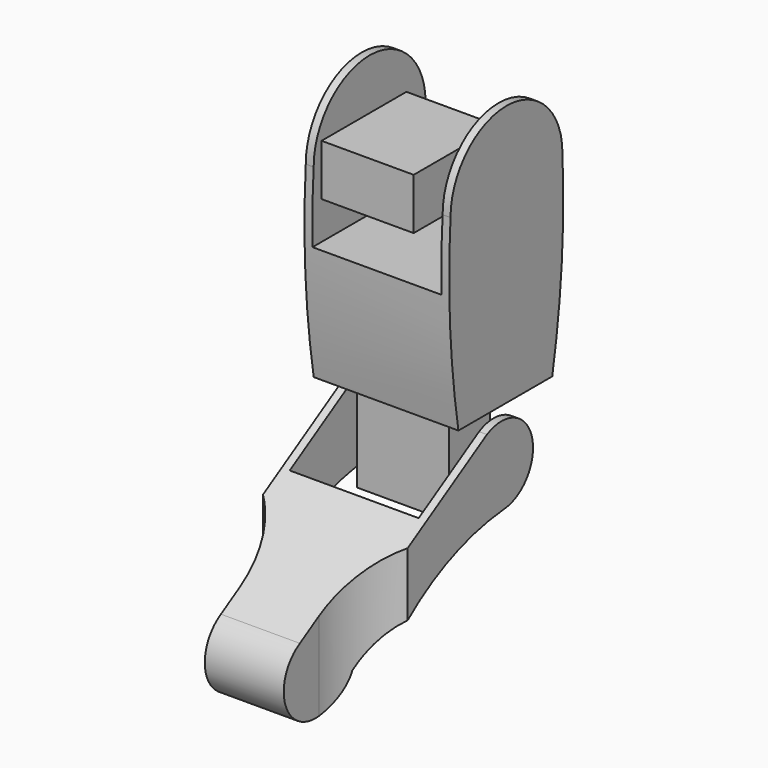
from build123d import *

# Parameters (mm, degrees)
PAD_DEPTH               = 55
SKETCH001_W             = 49
SKETCH001_H             = 60.9
POCKET_DEPTH            = 500
POCKET001_DEPTH         = 500
SKETCH003_W             = 40.3
SKETCH003_H             = 19.5
PAD001_DEPTH            = 35
SKETCH004_R             = 2.9
PAD002_DEPTH            = 43
BODY001_PLACEMENT_ANGLE = 90
PAD003_DEPTH            = 55
SKETCH006_W             = 49
SKETCH006_H             = 53.15
POCKET002_DEPTH         = 100
SKETCH007_W             = 40.3
SKETCH007_H             = 19.5
SKETCH007_R             = 2.9
PAD004_DEPTH            = 35
SKETCH008_R             = 2.9
PAD005_DEPTH            = 43


with BuildPart() as lowerlegbody:
    # Sketch → Pad (new body)
    with BuildSketch(Plane.YZ):
        with BuildLine():
            ThreePointArc((28.980657, 15.850683), (42.584206, 34.802551), (21.20392, 44.135996))
            Line((-52.001908, 0), (21.20392, 44.135996))
            ThreePointArc((-52.001908, 0), (-53.920439, -24.881725), (-30.209248, -17.099671))
            ThreePointArc((28.980657, 15.850683), (-4.124344, 5.680733), (-30.209248, -17.099671))
        make_face()
    extrude(amount=PAD_DEPTH)

    # Sketch001 → Pocket (cut)
    with BuildSketch(Plane(origin=(27.5, 23, -50), x_dir=(1, 0, 0), z_dir=(0, 0, 1))):
        Rectangle(SKETCH001_W, SKETCH001_H)
    extrude(amount=POCKET_DEPTH, mode=Mode.SUBTRACT)

    # Sketch002 → Pocket001 (cut)
    with BuildSketch(Plane(origin=(27.5, -35, -50), x_dir=(1, 0, 0), z_dir=(0, 0, 1))):
        with BuildLine():
            Line((-49.999941, -8.209968), (-49.999941, -38.209968))
            Line((-49.999941, -38.209968), (-15, -38.209968))
            Line((-15, -38.209968), (-15, -7.838993))
            ThreePointArc((-15, -7.838993), (-25.381364, 16.670931), (-49.999941, 26.791938))
            Line((-49.999941, 26.791938), (-49.999941, -8.209968))
        make_face()
        with BuildLine():
            Line((15, -7.838993), (15, -38.220366))
            Line((15, -38.220366), (49.997922, -38.220366))
            Line((49.997922, -38.220366), (49.997922, -8.220366))
            Line((49.99995, 26.779634), (49.997922, -8.220366))
            ThreePointArc((49.99995, 26.779634), (25.385111, 16.663555), (15, -7.838993))
        make_face()
    extrude(amount=POCKET001_DEPTH, mode=Mode.SUBTRACT)


with BuildPart() as lowerlegbody_1:
    # Body placement: moved
    add(lowerlegbody.part.moved(Location((-27.5, 0, 0))))


with BuildPart() as obj1:
    # Sketch003 → Pad001 (new body)
    with BuildSketch(Plane.XY):
        Rectangle(SKETCH003_W, SKETCH003_H)
    extrude(amount=PAD001_DEPTH)

    # Sketch004 → Pad002 (join)
    with BuildSketch(Plane.XY):
        with Locations((6.425, 0)):
            Circle(SKETCH004_R)
    extrude(amount=PAD002_DEPTH)


with BuildPart() as obj1_1:
    # Body001 placement: moved
    add(obj1.part.moved(Location((-21.5, 30.5, 30.83))).rotate(Axis((-21.5, 30.5, 30.83), (0, 1, 0)), BODY001_PLACEMENT_ANGLE))


with BuildPart() as upperlegbody:
    # Sketch005 → Pad003 (new body)
    with BuildSketch(Plane.YZ):
        with BuildLine():
            ThreePointArc((26.575, 99.999999), (0, 126.574999), (-26.575, 99.999998))
            ThreePointArc((-26.575, 99.999998), (-26.773139, 63.508395), (-22.818951, 27.231119))
            Line((-22.818951, 27.231119), (21.743508, 27.231119))
            ThreePointArc((21.743508, 27.231119), (26.276787, 63.474965), (26.575, 99.999999))
        make_face()
    extrude(amount=PAD003_DEPTH)

    # Sketch006 → Pocket002 (cut)
    with BuildSketch(Plane(origin=(3, 50, 0), x_dir=(1, 0, 0), z_dir=(0, -1, 0))):
        with Locations((24.5, 100)):
            Rectangle(SKETCH006_W, SKETCH006_H)
    extrude(amount=POCKET002_DEPTH, mode=Mode.SUBTRACT)


with BuildPart() as upperlegbody_1:
    # Body002 placement: moved
    add(upperlegbody.part.moved(Location((-27.5, 30.5, 23.75))))


with BuildPart() as obj2:
    # Sketch007 → Pad004 (new body)
    with BuildSketch(Plane.YZ):
        with Locations((-6.425, 100)):
            Rectangle(SKETCH007_W, SKETCH007_H)
        with Locations((0, 100)):
            Circle(SKETCH007_R, mode=Mode.SUBTRACT)
    extrude(amount=PAD004_DEPTH)

    # Sketch008 → Pad005 (join)
    with BuildSketch(Plane.YZ):
        with Locations((0, 100)):
            Circle(SKETCH008_R)
    extrude(amount=PAD005_DEPTH)


with BuildPart() as obj2_1:
    # Body003 placement: moved
    add(obj2.part.moved(Location((-21.5, 30.5, 23.75))))


solid = Compound([lowerlegbody_1.part, obj1_1.part, upperlegbody_1.part, obj2_1.part])
